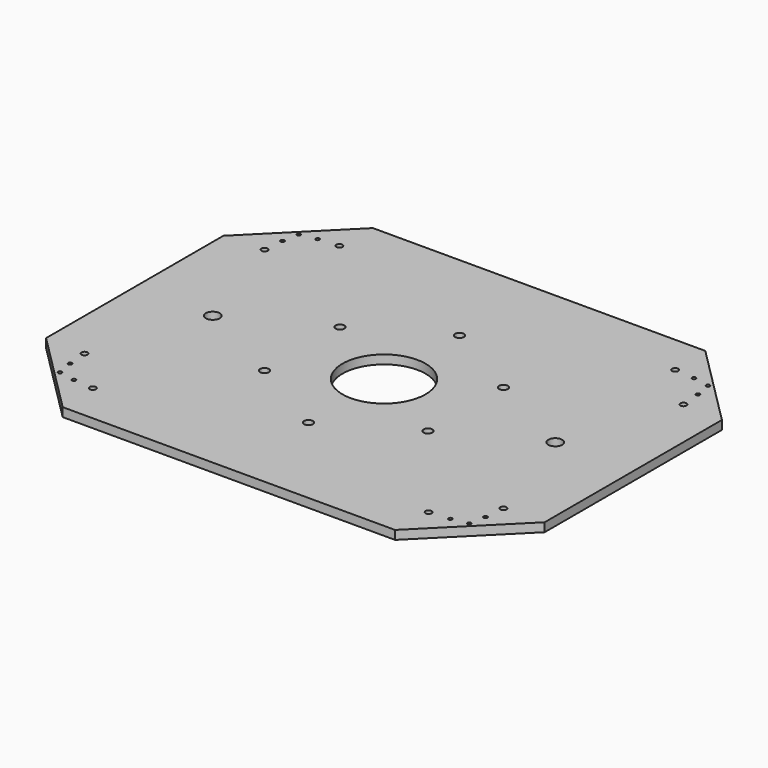
from build123d import *

# Parameters (mm, degrees)
F0_R     = 30
F1_DEPTH = 6.35
F3_D     = 10
F5_D     = 4.5
F6_D     = 2.7051
F7_D     = 2.7051
F9_D     = 6.35
F10_D    = 2.7051


with BuildPart() as f1:
    # F0 (on Top) → F1 (new body)
    with BuildSketch(Plane.XY):
        Polygon((-180, 60), (-120, 0), (120, 0), (180, 60), (180, 220), (120, 280), (-120, 280), (-180, 220), align=None)
        with Locations((0, 140)):
            Circle(F0_R, mode=Mode.SUBTRACT)
    extrude(amount=F1_DEPTH)

    # F3 (through all)
    with Locations(Plane.XY.offset(6.35)):
        with Locations((-123.65, 140), (123.65, 140)):
            Hole(F3_D / 2)

    # F5 (through all)
    with Locations(Plane.XY.offset(6.35)):
        with Locations((-121.2489651369, 251.2489651369), (-151.2489651369, 221.2489651369), (-151.2489651369, 58.7510348631), (-121.2489651369, 28.7510348631), (121.2489651369, 28.7510348631), (151.2489651369, 58.7510348631), (151.2489651369, 221.2489651369), (121.2489651369, 251.2489651369)):
            Hole(F5_D / 2)

    # F6 (through all)
    with Locations(Plane.XY.offset(6.35)):
        with Locations((-150, 235.8578643763), (-135.8578643763, 250)):
            Hole(F6_D / 2)

    # F7 (through all)
    with Locations(Plane.XY.offset(6.35)):
        with Locations((-150, 44.1421356237), (-135.8578643763, 30), (135.8578643763, 250), (150, 235.8578643763), (135.8578643763, 30), (150, 44.1421356237)):
            Hole(F7_D / 2)

    # F9 (through all)
    with Locations(Plane.XY.offset(6.35)):
        with Locations((0, 208.14583), (59.016019942, 174.072915), (-59.016019942, 174.072915), (-59.016019942, 105.927085), (0, 71.85417), (59.016019942, 105.927085)):
            Hole(F9_D / 2)

    # F10 (through all)
    with Locations(Plane.XY.offset(6.35)):
        with Locations((147.7549359697, 247.7549359697), (147.7549359697, 32.2450640303), (-147.7549359697, 32.2450640303), (-147.7549359697, 247.7549359697)):
            Hole(F10_D / 2)


solid = f1.part
